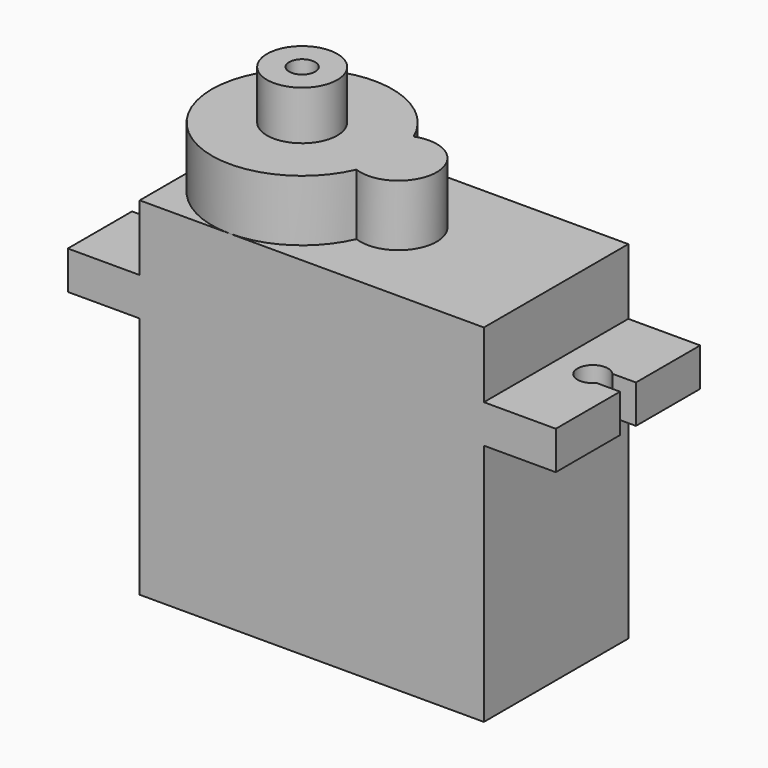
from build123d import *

# Parameters (mm, degrees)
CYLINDER005_R             = 0.85
CYLINDER005_DEPTH         = 4
CYLINDER004_R             = 2.3
CYLINDER004_DEPTH         = 3.3
CYLINDER003_R             = 2.5
CYLINDER003_DEPTH         = 4
CYLINDER002_R             = 5.9
CYLINDER002_DEPTH         = 4
BOX003_W                  = 22.5
BOX003_H                  = 11.8
BOX003_DEPTH              = 22.7
BOX002_W                  = 4.3
BOX002_H                  = 1.3
BOX002_DEPTH              = 5
CYLINDER001_R             = 1
CYLINDER001_DEPTH         = 5
FUSION001_PLACEMENT_ANGLE = 180
BOX001_W                  = 4.3
BOX001_H                  = 1.3
BOX001_DEPTH              = 5
CYLINDER_R                = 1
CYLINDER_DEPTH            = 5
BOX_W                     = 31.9
BOX_H                     = 11.8
BOX_DEPTH                 = 2.5


with BuildPart() as cylinder005:
    # Cylinder005 → Cylinder005 (new body)
    with BuildSketch(Plane.XY.offset(-0.5)):
        Circle(CYLINDER005_R)
    extrude(amount=CYLINDER005_DEPTH)


with BuildPart() as rotor:
    # Cylinder004 → Cylinder004 (new body)
    with BuildSketch(Plane.XY.offset(-0.1)):
        Circle(CYLINDER004_R)
    extrude(amount=CYLINDER004_DEPTH)

    # Cut002: cut Cylinder005
    add(cylinder005.part, mode=Mode.SUBTRACT)


with BuildPart() as rotor_1:
    # Cut002 placement: moved
    add(rotor.part.moved(Location((5.9, 5.9, 26.7))))


with BuildPart() as cylinder003:
    # Cylinder003 → Cylinder003 (new body)
    with BuildSketch(Plane(origin=(6.3, 0, 0), x_dir=(1, 0, 0), z_dir=(0, 0, 1))):
        Circle(CYLINDER003_R)
    extrude(amount=CYLINDER003_DEPTH)


with BuildPart() as soporte_con_rotor:
    # Cylinder002 → Cylinder002 (new body)
    with BuildSketch(Plane.XY):
        Circle(CYLINDER002_R)
    extrude(amount=CYLINDER002_DEPTH)

    # Fusion002: union Cylinder003
    add(cylinder003.part)


with BuildPart() as soporte_con_rotor_1:
    # Fusion002 placement: moved
    add(soporte_con_rotor.part.moved(Location((5.9, 5.9, 22.7))))

    # Fusion004: union rotor
    add(rotor_1.part)


with BuildPart() as base:
    # Box003 → Box003 (new body)
    with BuildSketch(Plane.XY):
        with Locations((11.25, 5.9)):
            Rectangle(BOX003_W, BOX003_H)
    extrude(amount=BOX003_DEPTH)


with BuildPart() as taladro_cubo001:
    # Box002 → Box002 (new body)
    with BuildSketch(Plane(origin=(0, -0.65, 0), x_dir=(1, 0, 0), z_dir=(0, 0, 1))):
        with Locations((2.15, 0.65)):
            Rectangle(BOX002_W, BOX002_H)
    extrude(amount=BOX002_DEPTH)


with BuildPart() as fusion001:
    # Cylinder001 → Cylinder001 (new body)
    with BuildSketch(Plane.XY):
        Circle(CYLINDER001_R)
    extrude(amount=CYLINDER001_DEPTH)

    # Fusion001: union taladro-cubo001
    add(taladro_cubo001.part)


with BuildPart() as fusion001_1:
    # Fusion001 placement: moved
    add(fusion001.part.moved(Location((2.3, 5.9, -1))).rotate(Axis((2.3, 5.9, -1), (0, 0, 1)), FUSION001_PLACEMENT_ANGLE))


with BuildPart() as taladro_cubo:
    # Box001 → Box001 (new body)
    with BuildSketch(Plane(origin=(0, -0.65, 0), x_dir=(1, 0, 0), z_dir=(0, 0, 1))):
        with Locations((2.15, 0.65)):
            Rectangle(BOX001_W, BOX001_H)
    extrude(amount=BOX001_DEPTH)


with BuildPart() as fusion:
    # Cylinder → Cylinder (new body)
    with BuildSketch(Plane.XY):
        Circle(CYLINDER_R)
    extrude(amount=CYLINDER_DEPTH)

    # Fusion: union taladro-cubo
    add(taladro_cubo.part)


with BuildPart() as fusion_1:
    # Fusion placement: moved
    add(fusion.part.moved(Location((29.6, 5.9, -1))))


with BuildPart() as fusion005:
    # Box → Box (new body)
    with BuildSketch(Plane.XY):
        with Locations((15.95, 5.9)):
            Rectangle(BOX_W, BOX_H)
    extrude(amount=BOX_DEPTH)

    # Cut: cut Fusion
    add(fusion_1.part, mode=Mode.SUBTRACT)

    # Cut001: cut Fusion001
    add(fusion001_1.part, mode=Mode.SUBTRACT)


with BuildPart() as fusion005_1:
    # Cut001 placement: moved
    add(fusion005.part.moved(Location((-4.7, 0, 15.9))))

    # Fusion003: union base
    add(base.part)

    # Fusion005: union soporte-con-rotor
    add(soporte_con_rotor_1.part)


solid = fusion005_1.part
